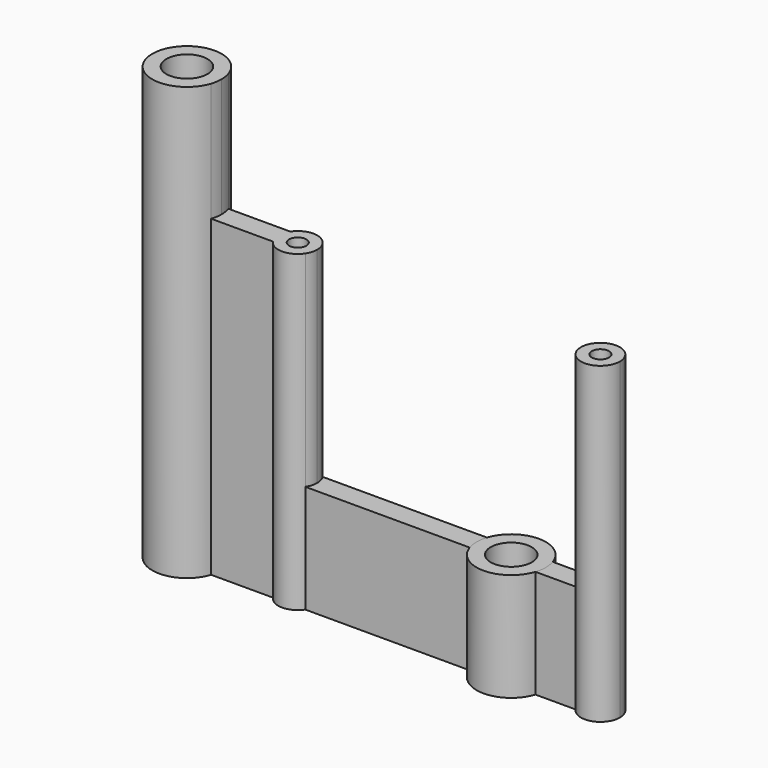
from build123d import *

# Parameters (mm, degrees)
F0_R     = 1.9
F1_DEPTH = 40
F2_DEPTH = 10
F0_R_2   = 0.8
F3_DEPTH = 29
F4_DEPTH = 10


with BuildPart() as f1:
    # F0 (on Top) → F1 (new body)
    with BuildSketch(Plane.XY):
        with BuildLine():
            ThreePointArc((-26.960263, -1), (-26.84032, -0.50638), (-26.8, 0))
            ThreePointArc((-26.8, 0), (-26.84032, 0.50638), (-26.960263, 1))
            ThreePointArc((-26.960263, 1), (-33.2, 0), (-26.960263, -1))
        make_face()
        with Locations((-30, 0)):
            Circle(F0_R, mode=Mode.SUBTRACT)
    extrude(amount=F1_DEPTH)


with BuildPart() as f2:
    # F0 (on Top) → F2 (new body)
    with BuildSketch(Plane.XY):
        with BuildLine():
            ThreePointArc((3.039737, 1), (0, 3.2), (-3.039737, 1))
            ThreePointArc((-3.039737, 1), (-3.2, 0), (-3.039737, -1))
            ThreePointArc((-3.039737, -1), (0, -3.2), (3.039737, -1))
            ThreePointArc((3.039737, -1), (3.15968, -0.50638), (3.2, 0))
            ThreePointArc((3.2, 0), (3.15968, 0.50638), (3.039737, 1))
        make_face()
        Circle(F0_R, mode=Mode.SUBTRACT)
    extrude(amount=F2_DEPTH)


with BuildPart() as f3:
    # F0 (on Top) → F3 (new body)
    with BuildSketch(Plane.XY):
        with BuildLine():
            ThreePointArc((-18.253337, 1), (-19.75, 1.8), (-21.246663, 1))
            ThreePointArc((-21.246663, 1), (-21.55, 0), (-21.246663, -1))
            ThreePointArc((-21.246663, -1), (-19.75, -1.8), (-18.253337, -1))
            ThreePointArc((-18.253337, -1), (-18.027503, -0.522497), (-17.95, 0))
            ThreePointArc((-17.95, 0), (-18.027503, 0.522497), (-18.253337, 1))
        make_face()
        with Locations((-19.75, 0)):
            Circle(F0_R_2, mode=Mode.SUBTRACT)
        with BuildLine():
            ThreePointArc((10.05, 0), (8.772497, 1.722497), (6.753337, 1))
            ThreePointArc((6.753337, 1), (6.45, 0), (6.753337, -1))
            ThreePointArc((6.753337, -1), (8.772497, -1.722497), (10.05, 0))
        make_face()
        with Locations((8.25, 0)):
            Circle(F0_R_2, mode=Mode.SUBTRACT)
        with BuildLine():
            ThreePointArc((-26.960263, 1), (-26.84032, 0.50638), (-26.8, 0))
            ThreePointArc((-26.8, 0), (-26.84032, -0.50638), (-26.960263, -1))
            Line((-26.960263, -1), (-21.246663, -1))
            ThreePointArc((-21.246663, -1), (-21.55, 0), (-21.246663, 1))
            Line((-21.246663, 1), (-26.960263, 1))
        make_face()
    extrude(amount=F3_DEPTH)


with BuildPart() as f4:
    # F0 (on Top) → F4 (new body)
    with BuildSketch(Plane.XY):
        with BuildLine():
            Line((-3.039737, 1), (-18.253337, 1))
            ThreePointArc((-18.253337, 1), (-18.027503, 0.522497), (-17.95, 0))
            ThreePointArc((-17.95, 0), (-18.027503, -0.522497), (-18.253337, -1))
            Line((-18.253337, -1), (-3.039737, -1))
            ThreePointArc((-3.039737, -1), (-3.2, 0), (-3.039737, 1))
        make_face()
        with BuildLine():
            Line((6.753337, 1), (3.039737, 1))
            ThreePointArc((3.039737, 1), (3.15968, 0.50638), (3.2, 0))
            ThreePointArc((3.2, 0), (3.15968, -0.50638), (3.039737, -1))
            Line((3.039737, -1), (6.753337, -1))
            ThreePointArc((6.753337, -1), (6.45, 0), (6.753337, 1))
        make_face()
    extrude(amount=F4_DEPTH)


solid = Compound([f1.part, f2.part, f3.part, f4.part])
